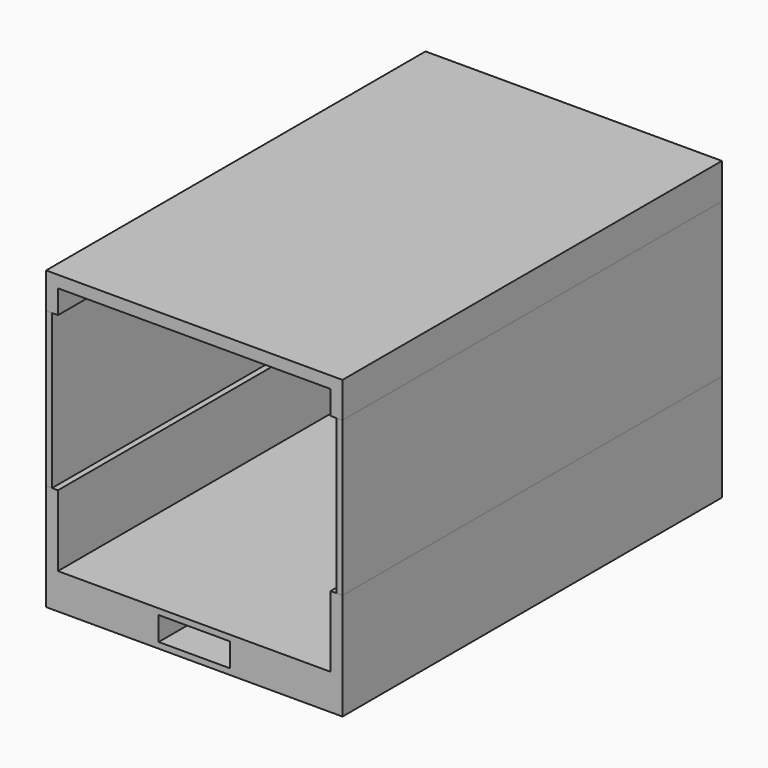
from build123d import *

# Parameters (mm, degrees)
F0_W      = 850
F0_H      = 200
F1_DEPTH  = 4000
F0_W_2    = 50
F0_H_2    = 1300
F2_DEPTH  = 4000
F3_DEPTH  = 24
F4_W      = 600
F4_H      = 50
F5_DEPTH  = 2100
F4_W_2    = 1100
F7_DEPTH  = 1000
F9_DEPTH  = 600
F11_DEPTH = 500


with BuildPart() as f1:
    # F0 (on Front) → F1 (new body)
    with BuildSketch(Plane.XZ):
        Polygon((-1250, 0), (0, 0), (1250, 0), (1250, 900), (1200, 900), (1150, 900), (1150, 324), (1150, 250), (1150, 50), (300, 50), (-300, 50), (-1150, 50), (-1150, 250), (-1150, 324), (-1150, 900), (-1200, 900), (-1250, 900), align=None)
        with Locations((725, 150)):
            Rectangle(F0_W, F0_H)
        with Locations((-725, 150)):
            Rectangle(F0_W, F0_H)
        Polygon((1150, 250), (1150, 324), (-1150, 324), (-1150, 250), (-300, 250), (300, 250), align=None)
    extrude(amount=F1_DEPTH)

    # F3 (cut): a face of the model
    f3_faces = [f1.faces().sort_by_distance(p)[0] for p in [
        (0, -2000, 324),
    ]]
    extrude(f3_faces, amount=-F3_DEPTH, mode=Mode.SUBTRACT)


with BuildPart() as f1b:
    # F0 (on Front) → F1, piece 2 (new body)
    with BuildSketch(Plane.XZ):
        Polygon((1200, 2200), (1250, 2200), (1250, 2500), (-1250, 2500), (-1250, 2200), (-1200, 2200), (-1150, 2200), (-1150, 2400), (1150, 2400), (1150, 2200), align=None)
    extrude(amount=F1_DEPTH)


with BuildPart() as f2:
    # F0 (on Front) → F2 (new body)
    with BuildSketch(Plane.XZ):
        with Locations((-1225, 1550)):
            Rectangle(F0_W_2, F0_H_2)
    extrude(amount=F2_DEPTH)


with BuildPart() as f2b:
    # F0 (on Front) → F2, piece 2 (new body)
    with BuildSketch(Plane.XZ):
        with Locations((1225, 1550)):
            Rectangle(F0_W_2, F0_H_2)
    extrude(amount=F2_DEPTH)


with BuildPart() as f5:
    # F4 (on face) → F5 (new body)
    with BuildSketch(Plane.XY.offset(300)):
        with Locations((-850, -25)):
            Rectangle(F4_W, F4_H)
    extrude(amount=F5_DEPTH)


with BuildPart() as f5b:
    # F4 (on face) → F5, piece 2 (new body)
    with BuildSketch(Plane.XY.offset(300)):
        with Locations((600, -25)):
            Rectangle(F4_W_2, F4_H)
    extrude(amount=F5_DEPTH)


with BuildPart() as f7:
    # F6 (on face) → F7 (new body)
    with BuildSketch(Plane.XY.offset(300)):
        with BuildLine():
            ThreePointArc((350.0000006451, -550), (562.1320345841, -637.8679658721), (650, -850))
            ThreePointArc((650, -850), (562.132034356, -1062.132034356), (350, -1150))
            ThreePointArc((350, -1150), (562.132034356, -1237.867965644), (650, -1450))
            ThreePointArc((650, -1450), (562.132034356, -1662.132034356), (350, -1750))
            Line((350, -1750), (1150, -1750))
            Line((1150, -1750), (1150, -50))
            Line((1150, -50), (573.60679775, -50))
            ThreePointArc((573.60679775, -50), (630.2517076888, -142.9533730681), (650, -250))
            ThreePointArc((650, -250), (562.132034584, -462.1320341279), (350.0000006451, -550))
        make_face()
        with BuildLine():
            ThreePointArc((650, -1450), (562.132034356, -1237.867965644), (350, -1150))
            ThreePointArc((350, -1150), (50, -1450), (350, -1750))
            ThreePointArc((350, -1750), (562.132034356, -1662.132034356), (650, -1450))
        make_face()
        with BuildLine():
            ThreePointArc((50, -250), (137.8679658721, -462.1320345841), (350.0000006451, -550))
            ThreePointArc((350.0000006451, -550), (562.132034584, -462.1320341279), (650, -250))
            ThreePointArc((650, -250), (630.2517076888, -142.9533730681), (573.60679775, -50))
            Line((573.60679775, -50), (126.39320225, -50))
            ThreePointArc((126.39320225, -50), (69.7482923112, -142.9533730681), (50, -250))
        make_face()
        with BuildLine():
            Line((50, -50), (50, -250))
            ThreePointArc((50, -250), (69.7482923112, -142.9533730681), (126.39320225, -50))
            Line((126.39320225, -50), (50, -50))
        make_face()
    extrude(amount=F7_DEPTH)


with BuildPart() as f9:
    # F8 (on face) → F9 (new body)
    with BuildSketch(Plane.XY.offset(1300)):
        with BuildLine():
            ThreePointArc((50, -250), (137.8679658721, -462.1320345841), (350.0000006451, -550))
            ThreePointArc((350.0000006451, -550), (650, -850.0000003226), (350, -1150))
            ThreePointArc((350, -1150), (50, -1450), (350, -1750))
            Line((350, -1750), (1150, -1750))
            Line((1150, -1750), (1150, -50))
            Line((1150, -50), (50, -50))
            Line((50, -50), (50, -250))
        make_face()
    extrude(amount=F9_DEPTH)


with BuildPart() as f11:
    # F10 (on face) → F11 (new body)
    with BuildSketch(Plane.XY.offset(1900)):
        with BuildLine():
            Line((1150, -50), (50, -50))
            add(Edge.make_bspline(
                [(50, -50), (113.2554549854, -156.6305603234), (239.04006967, -368.6673553634), (612.351433458, -381.5232642853), (847.1411136261, -616.0200329402), (846.6562743178, -941.398651859), (727.2759144798, -1168.4686969846), (516.6776333738, -1267.5470144766), (465.8033677392, -1439.2853578448), (541.7568834276, -1673.1610446208), (912.4735460433, -1719.9934383149), (1150, -1750)],
                knots=[0, 0, 0, 0, 0.1219327069, 0.2424653898, 0.3553562562, 0.4693066088, 0.5718978543, 0.6679916823, 0.750103704, 0.8398858562, 1, 1, 1, 1], degree=3))
            Line((1150, -1750), (1150, -50))
        make_face()
    extrude(amount=F11_DEPTH)


solid = Compound([f1.part, f1b.part, f2.part, f2b.part, f5.part, f5b.part, f7.part, f11.part])
